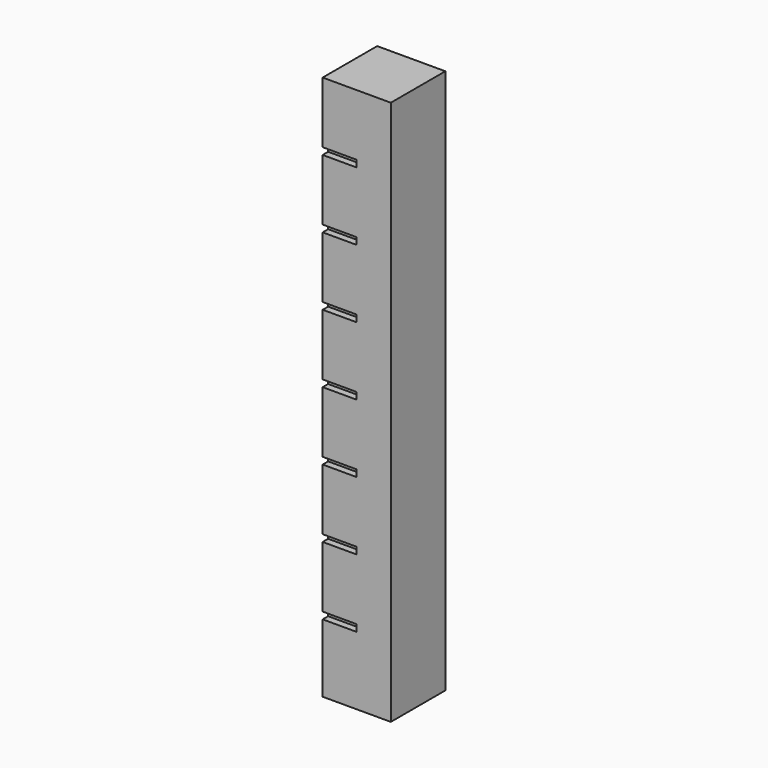
from build123d import *

# Parameters (mm, degrees)
F0_W     = 10
F0_H     = 10
F1_DEPTH = 80
F2_W     = 5
F2_H     = 1
F3_DEPTH = 1


with BuildPart() as f1:
    # F0 (on Top) → F1 (new body)
    with BuildSketch(Plane.XY):
        Rectangle(F0_W, F0_H)
    extrude(amount=F1_DEPTH)

    # F2 (on face) → F3 (cut)
    with BuildSketch(Plane.XZ.offset(5)):
        with Locations((-2.5, 70.5)):
            Rectangle(F2_W, F2_H)
        with Locations((-2.5, 60.5)):
            Rectangle(F2_W, F2_H)
        with Locations((-2.5, 50.5)):
            Rectangle(F2_W, F2_H)
        with Locations((-2.5, 40.5)):
            Rectangle(F2_W, F2_H)
        with Locations((-2.5, 30.5)):
            Rectangle(F2_W, F2_H)
        with Locations((-2.5, 20.5)):
            Rectangle(F2_W, F2_H)
        with Locations((-2.5, 10.5)):
            Rectangle(F2_W, F2_H)
    extrude(amount=-F3_DEPTH, mode=Mode.SUBTRACT)


solid = f1.part
